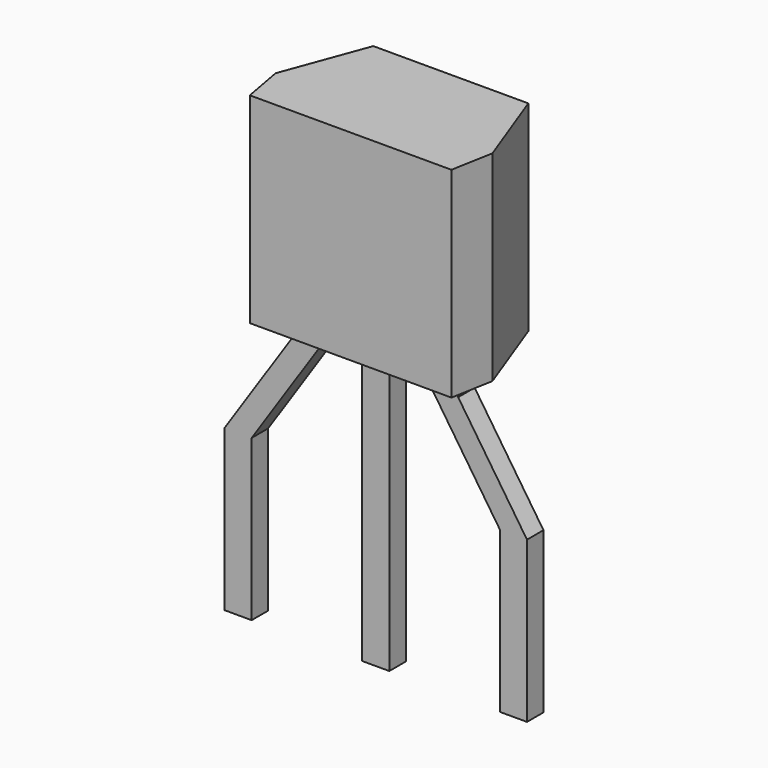
from build123d import *

# Parameters (mm, degrees)
PAD_DEPTH    = 3.7
SKETCH001_W  = 0.5
SKETCH001_H  = 5.5
PAD001_DEPTH = 0.19


with BuildPart() as pad:
    # Sketch002 → Pad (new body)
    with BuildSketch(Plane.XY.offset(2.5)):
        Polygon((1.11, 1.54), (3.97, 1.54), (4.54, 0), (4.4, -0.77), (0.68, -0.77), (0.54, 0), align=None)
    extrude(amount=PAD_DEPTH)


with BuildPart() as to_92s_wide:
    # Sketch001 → Pad001 (new body, symmetric)
    with BuildSketch(Plane.XZ):
        with Locations((2.54, 0.05)):
            Rectangle(SKETCH001_W, SKETCH001_H)
        Polygon((0.25, -2.7), (-0.25, -2.7), (-0.25, 0.26), (1.02, 2.16), (1.02, 2.8), (1.52, 2.8), (1.52, 2.16), (0.25, 0.26), align=None)
        Polygon((3.56, 2.8), (4.06, 2.8), (4.06, 2.16), (5.33, 0.26), (5.33, -2.7), (4.83, -2.7), (4.83, 0.26), (3.56, 2.16), align=None)
    extrude(amount=PAD001_DEPTH, both=True)

    add(pad.part)


solid = to_92s_wide.part
